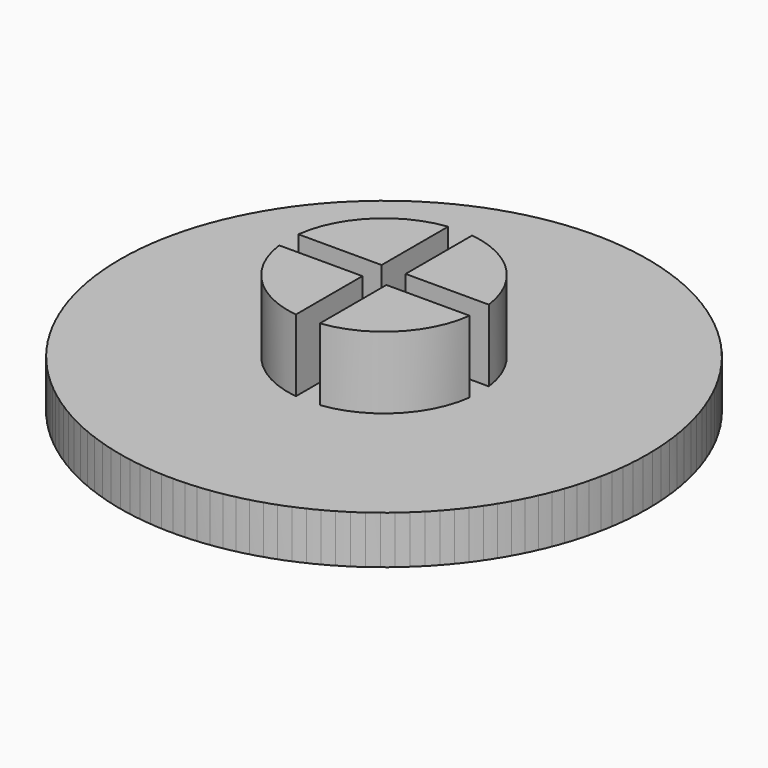
from build123d import *

# Parameters (mm, degrees)
F0_R     = 11
F1_DEPTH = 2
F3_DEPTH = 3


with BuildPart() as f1:
    # F0 (on Top) → F1 (new body)
    with BuildSketch(Plane.XY):
        Circle(F0_R)
    extrude(amount=F1_DEPTH)

    # F2 (on face) → F3 (join)
    with BuildSketch(Plane.XY.offset(2)):
        with BuildLine():
            Line((0.5, 0.5), (3.968627, 0.5))
            ThreePointArc((3.968627, 0.5), (2.828427, 2.828427), (0.5, 3.968627))
            Line((0.5, 3.968627), (0.5, 0.5))
        make_face()
    extrude(amount=F3_DEPTH)


with BuildPart() as f4_1:
    # F4: instance of F1
    add(f1.part.mirror(Plane.XZ))


with BuildPart() as f5_1:
    # F5: instance of F1
    add(f1.part.mirror(Plane.YZ))


with BuildPart() as f5_2:
    # F5: instance of F4_1
    add(f4_1.part.mirror(Plane.YZ))


solid = Compound([f1.part, f4_1.part, f5_1.part, f5_2.part])
